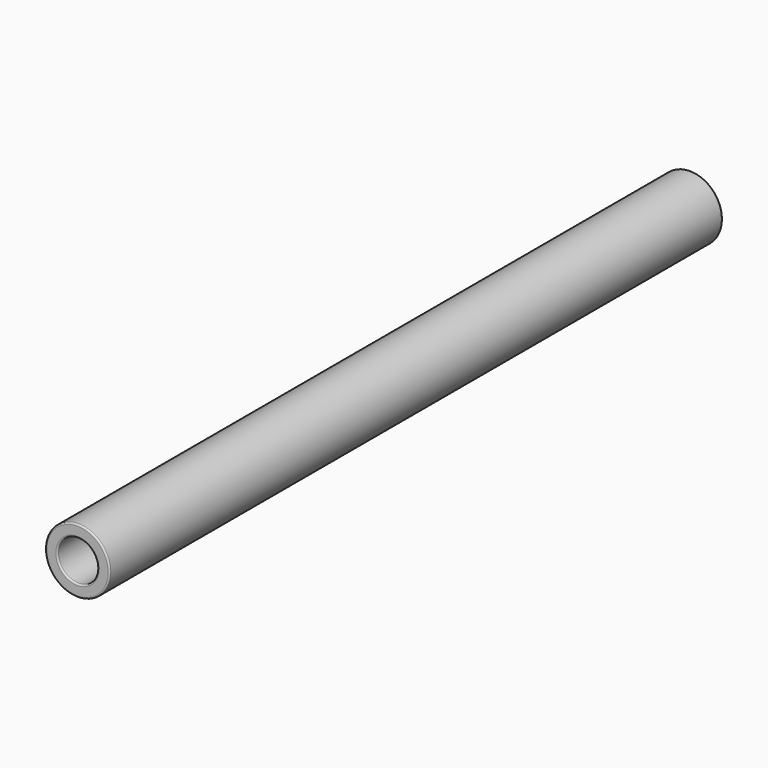
from build123d import *

# Parameters (mm, degrees)
F0_R     = 10.668
F0_R_2   = 6.6675
F1_DEPTH = 254
F2_SIZE2 = 5.08
F2_SIZE  = 2.54
F3_R     = 0.508
F4_R     = 0.508


with BuildPart() as f1:
    # F0 (on Front) → F1 (new body)
    with BuildSketch(Plane.XZ):
        Circle(F0_R)
        Circle(F0_R_2, mode=Mode.SUBTRACT)
    extrude(amount=F1_DEPTH)

    # F2
    f2_edges = [f1.edges().sort_by_distance(p)[0] for p in [
        (-6.6675, 0, 0),
    ]]
    f2_side = f1.faces().sort_by_distance((-10.366263, 0, 0))[0]
    chamfer(f2_edges, length=F2_SIZE, length2=F2_SIZE2, reference=f2_side)

    # F3
    f3_edges = [f1.edges().sort_by_distance(p)[0] for p in [
        (-10.668, 0, 0),
        (-9.2075, 0, 0),
    ]]
    fillet(f3_edges, radius=F3_R)

    # F4
    f4_edges = [f1.edges().sort_by_distance(p)[0] for p in [
        (-10.668, -254, 0),
        (-6.6675, -254, 0),
    ]]
    fillet(f4_edges, radius=F4_R)


solid = f1.part
